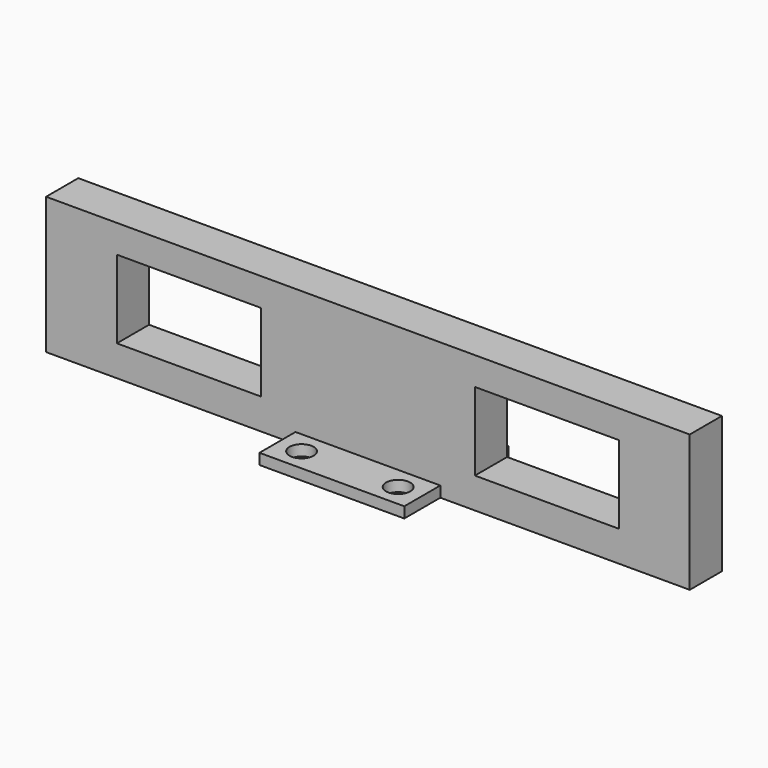
from build123d import *

# Parameters (mm, degrees)
F0_W     = 101.6
F0_H     = 21.59
F1_DEPTH = 6.35
F2_W     = 22.733
F2_H     = 12.319
F3_DEPTH = 25.4
F4_W     = 22.86
F4_H     = 1.7018
F5_DEPTH = 7.112
F6_W     = 22.86
F6_H     = 1.7018
F7_DEPTH = 7.112
F9_D     = 3.81


with BuildPart() as f1:
    # F0 (on Front) → F1 (new body)
    with BuildSketch(Plane.XZ):
        with Locations((4.648548, 21.848283)):
            Rectangle(F0_W, F0_H)
    extrude(amount=F1_DEPTH)

    # F2 (on face) → F3 (cut)
    with BuildSketch(Plane.XZ.offset(6.35)):
        with Locations((-23.608952, 22.064183)):
            Rectangle(F2_W, F2_H)
        with Locations((32.906048, 22.064183)):
            Rectangle(F2_W, F2_H)
    extrude(amount=-F3_DEPTH, mode=Mode.SUBTRACT)

    # F4 (on face) → F5 (join)
    with BuildSketch(Plane.XZ.offset(6.35)):
        with Locations((4.648548, 11.904183)):
            Rectangle(F4_W, F4_H)
    extrude(amount=F5_DEPTH)

    # F6 (on Front) → F7 (join)
    with BuildSketch(Plane.XZ):
        with Locations((4.648548, 11.904183)):
            Rectangle(F6_W, F6_H)
    extrude(amount=-F7_DEPTH)

    # F9 (through all)
    with Locations(Plane.XY.offset(12.755083)):
        with Locations((-2.971452, 3.556), (12.268548, 3.556), (12.268548, -9.906), (-2.971452, -9.906)):
            Hole(F9_D / 2)


solid = f1.part
